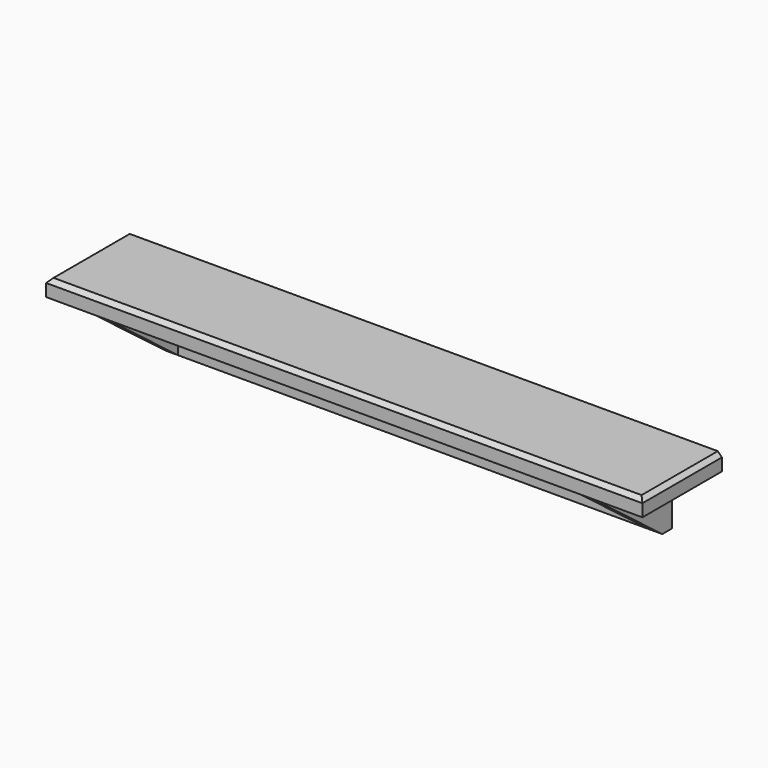
from build123d import *

# Parameters (mm, degrees)
F0_W     = 914.4
F0_H     = 25.4
F1_DEPTH = 152.4
F2_SIZE  = 6.35
F3_W     = 19.05
F3_H     = 152.4
F4_DEPTH = 101.6
F6_DEPTH = 838.201
F7_W     = 19.05
F7_H     = 101.6
F8_DEPTH = 723.9


with BuildPart() as f1:
    # F0 (on Front) → F1 (new body)
    with BuildSketch(Plane.XZ):
        Rectangle(F0_W, F0_H)
    extrude(amount=F1_DEPTH)

    # F2
    f2_edges = [f1.edges().sort_by_distance(p)[0] for p in [
        (-457.2, -76.2, 12.7),
        (0, -152.4, 12.7),
        (457.2, -76.2, 12.7),
    ]]
    chamfer(f2_edges, length=F2_SIZE)

    # F3 (on face) → F4 (join)
    with BuildSketch(Plane(origin=(0, 0, -12.7), x_dir=(1, 0, 0), z_dir=(0, 0, -1))):
        with Locations((-371.475, 76.2)):
            Rectangle(F3_W, F3_H)
        with Locations((371.475, 76.2)):
            Rectangle(F3_W, F3_H)
    extrude(amount=F4_DEPTH)

    # F5 (on face) → F6 (cut, through all)
    with BuildSketch(Plane.YZ.offset(381)):
        Polygon((-19.05, -114.3), (-152.4, -12.7), (-152.4, -114.3), align=None)
    extrude(amount=-F6_DEPTH, mode=Mode.SUBTRACT)

    # F7 (on face) → F8 (join, through all)
    with BuildSketch(Plane.YZ.offset(-361.95)):
        with Locations((-9.525, -63.5)):
            Rectangle(F7_W, F7_H)
    extrude(amount=F8_DEPTH)


solid = f1.part
